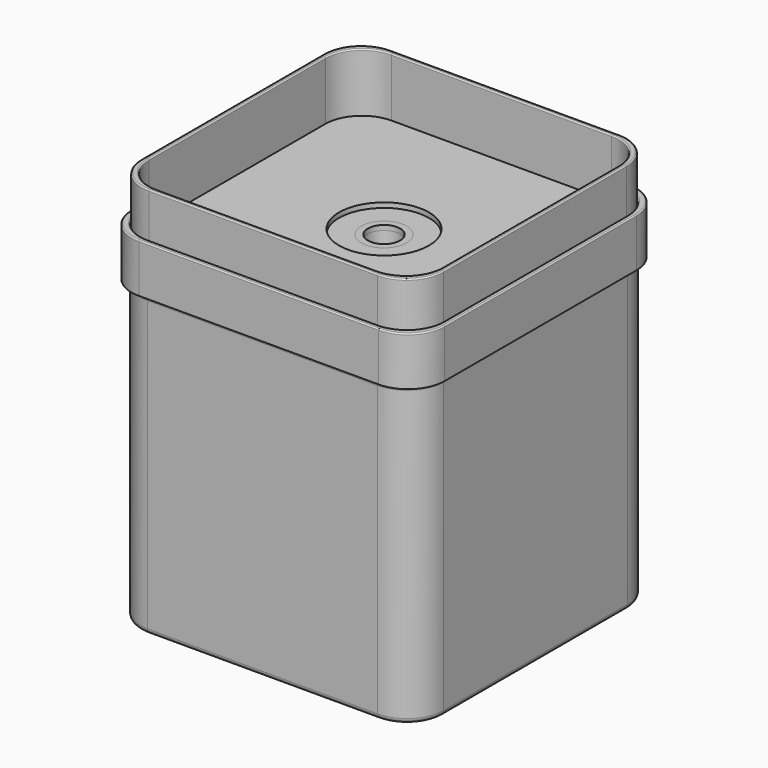
from build123d import *

# Parameters (mm, degrees)
SKETCH001_R       = 17.5
SKETCH001_R_2     = 6.625
PAD_DEPTH         = 2
PAD001_DEPTH      = 28
POCKET_DEPTH      = 24
SKETCH004_R       = 8.7975
POCKET001_DEPTH   = 4
SKETCH005_R       = 18.375
POCKET002_DEPTH   = 2
FILLET003_R       = 0.5
FILLET004_R       = 2
FILLET005_R       = 0.5
PAD002_DEPTH      = 132
PAD003_DEPTH      = 10
PAD003_DEPTH_BACK = 10
POCKET003_DEPTH   = 140
POCKET004_DEPTH   = 10
FILLET_R          = 1.9
FILLET001_R       = 2
FILLET002_R       = 0.5


with BuildPart() as cone_body:
    # Sketch → Revolution (revolve)
    with BuildSketch(Plane.XZ):
        Polygon((-6.625, 0), (-3.307527, -95), (-5.307527, -95), (-8.625, 0), align=None)
    revolve(axis=Axis((0, 0, 0), (0, 0, 1)))

    # Sketch001 → Pad (new body)
    with BuildSketch(Plane.XY):
        Circle(SKETCH001_R)
        Circle(SKETCH001_R_2, mode=Mode.SUBTRACT)
    extrude(amount=PAD_DEPTH)


with BuildPart() as tray:
    # Sketch002 → Pad001 (new body)
    with BuildSketch(Plane.XY):
        with BuildLine():
            Line((61.75, -46.75), (61.75, 46.75))
            ThreePointArc((61.75, 46.75), (57.356602, 57.356602), (46.75, 61.75))
            Line((46.75, 61.75), (-46.75, 61.75))
            ThreePointArc((-46.75, 61.75), (-57.356602, 57.356602), (-61.75, 46.75))
            Line((-61.75, 46.75), (-61.75, -46.75))
            ThreePointArc((-61.75, -46.75), (-57.356602, -57.356602), (-46.75, -61.75))
            Line((-46.75, -61.75), (46.75, -61.75))
            ThreePointArc((46.75, -61.75), (57.356602, -57.356602), (61.75, -46.75))
        make_face()
    extrude(amount=PAD001_DEPTH)

    # Sketch003 (on Face10 of Pad001) → Pocket (cut)
    with BuildSketch(Plane.XY.offset(28)):
        with BuildLine():
            Line((60, -45), (60, 45))
            ThreePointArc((60, 45), (55.606602, 55.606602), (45, 60))
            Line((45, 60), (-45, 60))
            ThreePointArc((-45, 60), (-55.606602, 55.606602), (-60, 45))
            Line((-60, 45), (-60, -45))
            ThreePointArc((-60, -45), (-55.606602, -55.606602), (-45, -60))
            Line((-45, -60), (45, -60))
            ThreePointArc((45, -60), (55.606602, -55.606602), (60, -45))
        make_face()
    extrude(amount=-POCKET_DEPTH, mode=Mode.SUBTRACT)

    # Sketch004 (on Face19 of Pocket) → Pocket001 (cut)
    with BuildSketch(Plane.XY.offset(4)):
        Circle(SKETCH004_R)
    extrude(amount=-POCKET001_DEPTH, mode=Mode.SUBTRACT)

    # Sketch005 (on Face20 of Pocket001) → Pocket002 (cut)
    with BuildSketch(Plane.XY.offset(4)):
        Circle(SKETCH005_R)
    extrude(amount=-POCKET002_DEPTH, mode=Mode.SUBTRACT)

    # Fillet003
    fillet003_edges = [tray.edges().sort_by_distance(p)[0] for p in [
        (61.75, 0, 28),
        (57.356602, -57.356602, 28),
        (57.356602, 57.356602, 28),
        (0, -61.75, 28),
        (0, 61.75, 28),
        (-57.356602, -57.356602, 28),
        (-57.356602, 57.356602, 28),
        (-61.75, 0, 28),
        (60, 0, 28),
        (55.606602, 55.606602, 28),
        (0, 60, 28),
        (-55.606602, 55.606602, 28),
        (-60, 0, 28),
        (-55.606602, -55.606602, 28),
        (0, -60, 28),
        (55.606602, -55.606602, 28),
    ]]
    fillet(fillet003_edges, radius=FILLET003_R)

    # Fillet004
    fillet004_edges = [tray.edges().sort_by_distance(p)[0] for p in [
        (-61.75, 0, 0),
    ]]
    fillet(fillet004_edges, radius=FILLET004_R)

    # Fillet005
    fillet005_edges = [tray.edges().sort_by_distance(p)[0] for p in [
        (-8.7975, 0, 2),
        (-8.7975, 0, 0),
    ]]
    fillet(fillet005_edges, radius=FILLET005_R)


with BuildPart() as base:
    # Sketch006 → Pad002 (new body)
    with BuildSketch(Plane.XY):
        with BuildLine():
            Line((62, -47), (62, 47))
            ThreePointArc((62, 47), (57.606602, 57.606602), (47, 62))
            Line((47, 62), (-47, 62))
            ThreePointArc((-47, 62), (-57.606602, 57.606602), (-62, 47))
            Line((-62, 47), (-62, -47))
            ThreePointArc((-62, -47), (-57.606602, -57.606602), (-47, -62))
            Line((-47, -62), (47, -62))
            ThreePointArc((47, -62), (57.606602, -57.606602), (62, -47))
        make_face()
    extrude(amount=-PAD002_DEPTH)

    # Sketch007 (on Face9 of Pad002) → Pad003 (join, two sides)
    with BuildSketch(Plane.XY) as pad003_sk:
        with BuildLine():
            Line((64, -49), (64, 49))
            ThreePointArc((64, 49), (59.606602, 59.606602), (49, 64))
            Line((49, 64), (-49, 64))
            ThreePointArc((-49, 64), (-59.606602, 59.606602), (-64, 49))
            Line((-64, 49), (-64, -49))
            ThreePointArc((-64, -49), (-59.606602, -59.606602), (-49, -64))
            Line((-49, -64), (49, -64))
            ThreePointArc((49, -64), (59.606602, -59.606602), (64, -49))
        make_face()
    extrude(amount=PAD003_DEPTH)
    extrude(pad003_sk.sketch, amount=-PAD003_DEPTH_BACK)

    # Sketch008 (on Face19 of Pad003) → Pocket003 (cut)
    with BuildSketch(Plane.XY.offset(10)):
        with BuildLine():
            Line((60, -45), (60, 45))
            ThreePointArc((60, 45), (55.606602, 55.606602), (45, 60))
            Line((45, 60), (-45, 60))
            ThreePointArc((-45, 60), (-55.606602, 55.606602), (-60, 45))
            Line((-60, 45), (-60, -45))
            ThreePointArc((-60, -45), (-55.606602, -55.606602), (-45, -60))
            Line((-45, -60), (45, -60))
            ThreePointArc((45, -60), (55.606602, -55.606602), (60, -45))
        make_face()
    extrude(amount=-POCKET003_DEPTH, mode=Mode.SUBTRACT)

    # Sketch009 (on Face19 of Pocket003) → Pocket004 (cut)
    with BuildSketch(Plane.XY.offset(10)):
        with BuildLine():
            Line((62, -47), (62, 47))
            ThreePointArc((62, 47), (57.606602, 57.606602), (47, 62))
            Line((47, 62), (-47, 62))
            ThreePointArc((-47, 62), (-57.606602, 57.606602), (-62, 47))
            Line((-62, 47), (-62, -47))
            ThreePointArc((-62, -47), (-57.606602, -57.606602), (-47, -62))
            Line((-47, -62), (47, -62))
            ThreePointArc((47, -62), (57.606602, -57.606602), (62, -47))
        make_face()
    extrude(amount=-POCKET004_DEPTH, mode=Mode.SUBTRACT)

    # Fillet
    fillet_edges = [base.edges().sort_by_distance(p)[0] for p in [
        (0, -62, -10),
        (-57.606602, -57.606602, -10),
        (-62, 0, -10),
        (-57.606602, 57.606602, -10),
        (0, 62, -10),
        (57.606602, 57.606602, -10),
        (62, 0, -10),
        (57.606602, -57.606602, -10),
    ]]
    fillet(fillet_edges, radius=FILLET_R)

    # Fillet001
    fillet001_edges = [base.edges().sort_by_distance(p)[0] for p in [
        (62, 0, -132),
        (57.606602, 57.606602, -132),
        (0, 62, -132),
        (-57.606602, 57.606602, -132),
        (-62, 0, -132),
        (-57.606602, -57.606602, -132),
        (0, -62, -132),
        (57.606602, -57.606602, -132),
    ]]
    fillet(fillet001_edges, radius=FILLET001_R)

    # Fillet002
    fillet002_edges = [base.edges().sort_by_distance(p)[0] for p in [
        (0, 60, 0),
        (0, 62, 10),
        (-55.606602, 55.606602, 0),
        (-57.606602, 57.606602, 10),
        (-60, 0, 0),
        (-62, 0, 10),
        (-55.606602, -55.606602, 0),
        (-57.606602, -57.606602, 10),
        (0, -60, 0),
        (0, -62, 10),
        (55.606602, -55.606602, 0),
        (57.606602, -57.606602, 10),
        (60, 0, 0),
        (62, 0, 10),
        (55.606602, 55.606602, 0),
        (57.606602, 57.606602, 10),
        (0, 64, 10),
    ]]
    fillet(fillet002_edges, radius=FILLET002_R)


solid = Compound([cone_body.part, tray.part, base.part])
